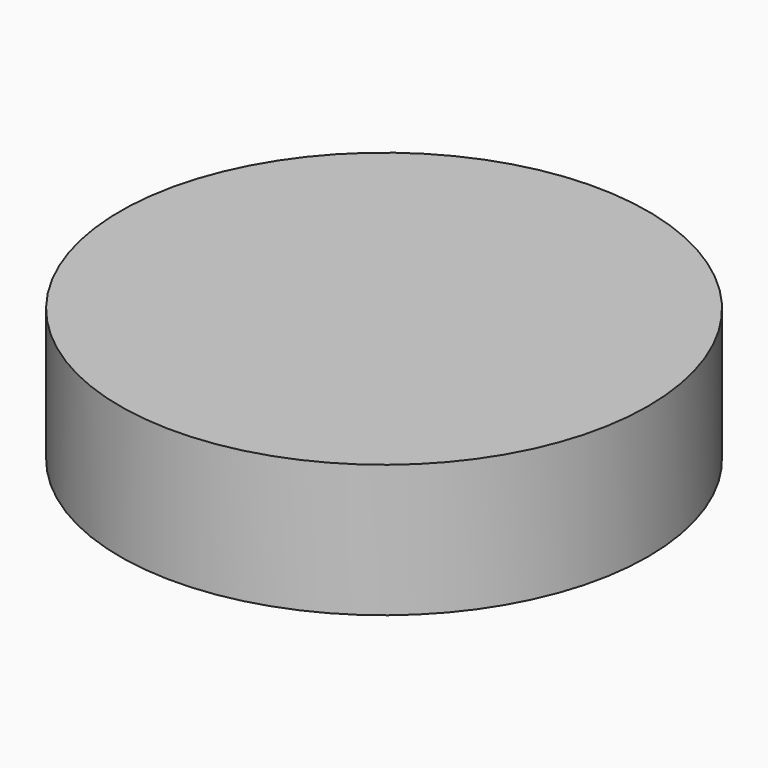
from build123d import *

# Parameters (mm, degrees)
F0_R     = 15
F1_DEPTH = 30
F3_DEPTH = 25


with BuildPart() as f1:
    # F0 (on Top) → F1 (new body)
    with BuildSketch(Plane.XY):
        Circle(F0_R)
    extrude(amount=F1_DEPTH)

    # F2 (on Right) → F3 (cut, symmetric)
    with BuildSketch(Plane.YZ):
        Polygon((27.991705, 7.528184), (27.991705, 37.135664), (-31.334244, 34.904946), (-31.334244, 7.528184), align=None)
    extrude(amount=F3_DEPTH, both=True, mode=Mode.SUBTRACT)


solid = f1.part
